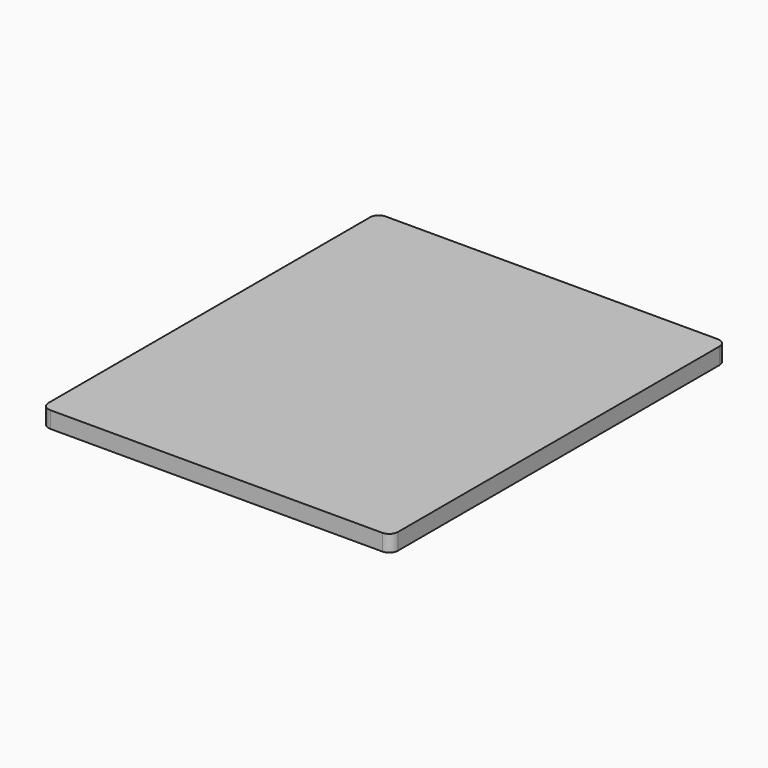
from build123d import *

# Parameters (mm, degrees)
F0_W     = 127
F0_H     = 152.4
F0_W_2   = 103
F0_H_2   = 64.5
F1_DEPTH = 6
F2_DEPTH = 2
F3_R     = 3.175


with BuildPart() as f1:
    # F0 (on Top) → F1 (new body)
    with BuildSketch(Plane.XY):
        Rectangle(F0_W, F0_H)
        Rectangle(F0_W_2, F0_H_2, mode=Mode.SUBTRACT)
        Rectangle(F0_W_2, F0_H_2)
    extrude(amount=F1_DEPTH)

    # F0 (on Top) → F2 (cut)
    with BuildSketch(Plane.XY):
        Rectangle(F0_W_2, F0_H_2)
    extrude(amount=F2_DEPTH, mode=Mode.SUBTRACT)

    # F3
    f3_edges = [f1.edges().sort_by_distance(p)[0] for p in [
        (63.5, -76.2, 3),
        (-63.5, -76.2, 3),
        (63.5, 76.2, 3),
        (-63.5, 76.2, 3),
    ]]
    fillet(f3_edges, radius=F3_R)


solid = f1.part
